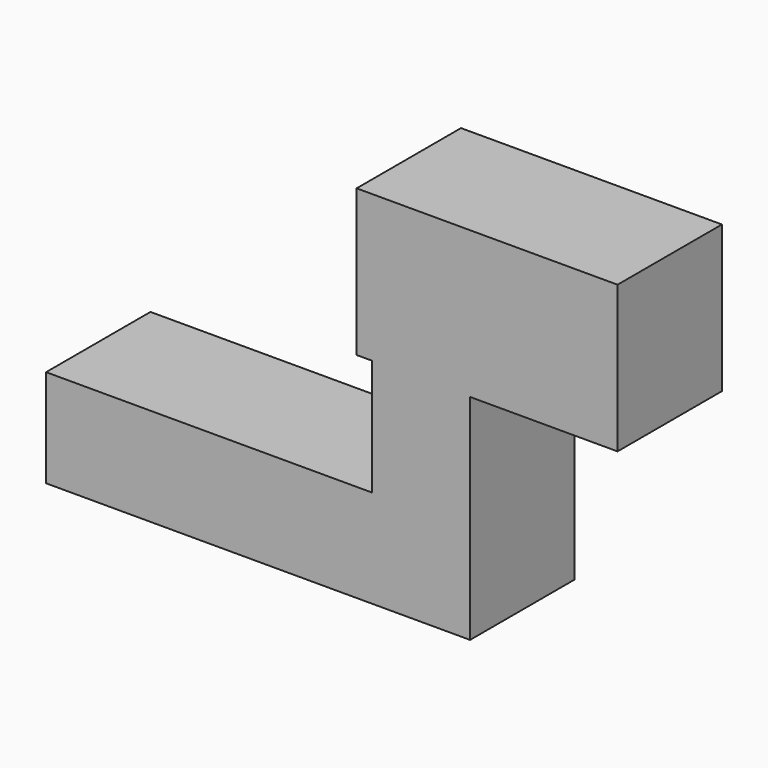
from build123d import *

# Parameters (mm, degrees)
F0_W     = 13.97
F0_H     = 28.575
F0_W_2   = 3.038054
F0_W_3   = 14.741946
F1_DEPTH = 25.4


with BuildPart() as f1:
    # F0 (on Front) → F1 (new body)
    with BuildSketch(Plane.XZ):
        Polygon((-41.275, 9.525), (-41.275, -9.525), (41.275, -9.525), (41.275, 9.525), (22.225, 9.525), align=None)
        Polygon((22.225, 9.525), (41.275, 9.525), (41.275, 32.12196), (28.457038, 32.12196), (22.225, 32.12196), align=None)
        with Locations((48.26, 46.40946)):
            Rectangle(F0_W, F0_H)
        Polygon((28.457038, 32.12196), (41.275, 32.12196), (41.275, 60.69696), (22.225, 60.69696), (22.225, 32.12196), align=None)
        with Locations((20.705973, 46.40946)):
            Rectangle(F0_W_2, F0_H)
        with Locations((62.615973, 46.40946)):
            Rectangle(F0_W_3, F0_H)
    extrude(amount=F1_DEPTH)


solid = f1.part
